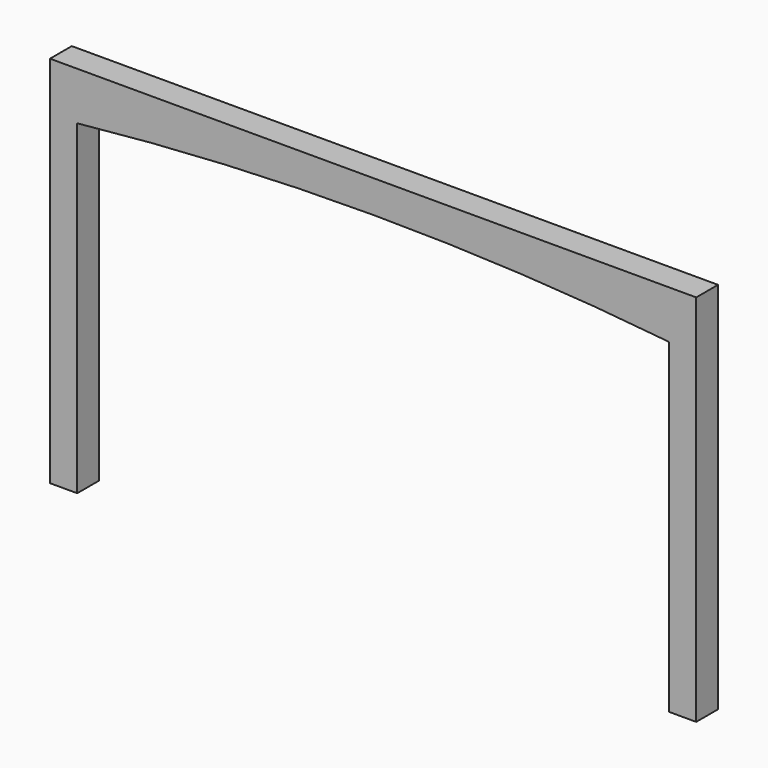
from build123d import *

# Parameters (mm, degrees)
F0_W     = 2895.6
F0_H     = 234.95
F1_DEPTH = 133.35
F3_DEPTH = 133.351


with BuildPart() as f1:
    # F0 (on Front) → F1 (new body)
    with BuildSketch(Plane.XZ):
        Polygon((0, 1828.8), (0, 0), (133.35, 0), (133.35, 1593.85), (133.35, 1828.8), align=None)
        with Locations((1581.15, 1711.325)):
            Rectangle(F0_W, F0_H)
        Polygon((3028.95, 1828.8), (3028.95, 1593.85), (3028.95, 0), (3162.3, 0), (3162.3, 1828.8), align=None)
    extrude(amount=F1_DEPTH)

    # F2 (on face) → F3 (cut, through all)
    with BuildSketch(Plane.XZ.offset(133.35)):
        with BuildLine():
            Line((133.35, 1593.85), (3028.95, 1593.85))
            ThreePointArc((3028.95, 1593.85), (1581.15, 1670.05), (133.35, 1593.85))
        make_face()
    extrude(amount=-F3_DEPTH, mode=Mode.SUBTRACT)


solid = f1.part
